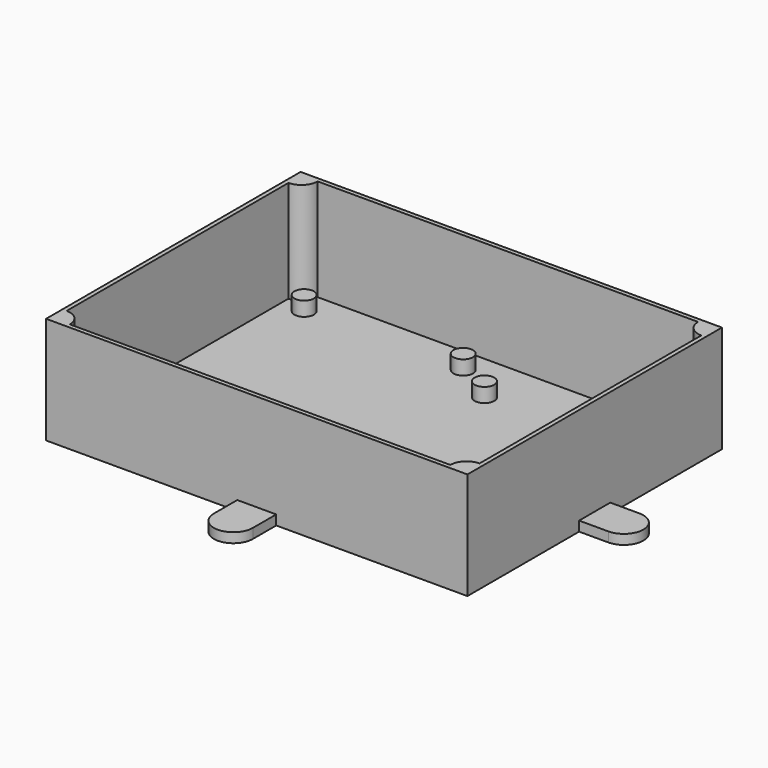
from build123d import *

# Parameters (mm, degrees)
SKETCH008_R  = 3
PAD008_DEPTH = 6
SKETCH004_R  = 3
PAD004_DEPTH = 6
PAD001_DEPTH = 1.6
PAD_DEPTH    = 3
SKETCH002_W  = 129.8
SKETCH002_H  = 98
PAD002_DEPTH = 33
SKETCH005_R  = 3
PAD005_DEPTH = 6
SKETCH006_R  = 3
PAD006_DEPTH = 6
SKETCH007_R  = 3
PAD007_DEPTH = 6
SKETCH009_R  = 3
PAD009_DEPTH = 6
SKETCH010_R  = 3
PAD010_DEPTH = 6
SKETCH011_R  = 3
PAD011_DEPTH = 6


with BuildPart() as body008:
    # Sketch008 → Pad008 (new body)
    with BuildSketch(Plane.XY):
        with Locations((8.45, 28)):
            Circle(SKETCH008_R)
    extrude(amount=PAD008_DEPTH)


with BuildPart() as body004:
    # Sketch004 → Pad004 (new body)
    with BuildSketch(Plane.XY):
        with Locations((-53.5, 36)):
            Circle(SKETCH004_R)
    extrude(amount=PAD004_DEPTH)


with BuildPart() as body001:
    # Sketch001 → Pad001 (new body)
    with BuildSketch(Plane.XY):
        with BuildLine():
            Line((-55.5, 43.7), (61.7, 43.7))
            ThreePointArc((61.7, 43.7), (63.164466, 40.164466), (66.7, 38.7))
            Line((66.7, 38.7), (66.7, -46.7))
            ThreePointArc((66.7, -46.7), (63.164466, -48.164466), (61.7, -51.7))
            Line((61.7, -51.7), (-55.5, -51.7))
            ThreePointArc((-55.5, -51.7), (-56.964466, -48.164466), (-60.5, -46.7))
            Line((-60.5, -46.7), (-60.5, 38.7))
            ThreePointArc((-60.5, 38.7), (-56.964466, 40.164466), (-55.5, 43.7))
        make_face()
    extrude(amount=PAD001_DEPTH)


with BuildPart() as fusion:
    # Sketch → Pad (new body)
    with BuildSketch(Plane.XY):
        with BuildLine():
            Line((-61.8, 45), (-2.9, 45))
            Line((-2.9, 54), (-2.9, 45))
            ThreePointArc((9.1, 54), (3.1, 60), (-2.9, 54))
            Line((9.1, 54), (9.1, 45))
            Line((9.1, 45), (68, 45))
            Line((68, 45), (68, 2))
            Line((77, 2), (68, 2))
            ThreePointArc((77, -10), (83, -4), (77, 2))
            Line((77, -10), (68, -10))
            Line((68, -10), (68, -53))
            Line((68, -53), (9.1, -53))
            Line((9.1, -62), (9.1, -53))
            ThreePointArc((-2.9, -62), (3.1, -68), (9.1, -62))
            Line((-2.9, -62), (-2.9, -53))
            Line((-2.9, -53), (-61.8, -53))
            Line((-61.8, -53), (-61.8, -10))
            Line((-61.8, -10), (-70.8, -10))
            ThreePointArc((-70.8, 2), (-76.8, -4), (-70.8, -10))
            Line((-61.8, 2), (-70.8, 2))
            Line((-61.8, 2), (-61.8, 45))
        make_face()
        with BuildLine():
            Line((-55.5, 43.7), (61.7, 43.7))
            ThreePointArc((61.7, 43.7), (63.164466, 40.164466), (66.7, 38.7))
            Line((66.7, 38.7), (66.7, -46.7))
            ThreePointArc((66.7, -46.7), (63.164466, -48.164466), (61.7, -51.7))
            Line((61.7, -51.7), (-55.5, -51.7))
            ThreePointArc((-55.5, -51.7), (-56.964466, -48.164466), (-60.5, -46.7))
            Line((-60.5, -46.7), (-60.5, 38.7))
            ThreePointArc((-60.5, 38.7), (-56.964466, 40.164466), (-55.5, 43.7))
        make_face(mode=Mode.SUBTRACT)
    extrude(amount=PAD_DEPTH)

    # Fusion: union Body001
    add(body001.part)


with BuildPart() as fusion002:
    # Sketch002 → Pad002 (new body)
    with BuildSketch(Plane.XY):
        with Locations((3.1, -4)):
            Rectangle(SKETCH002_W, SKETCH002_H)
        with BuildLine():
            Line((-55.5, 43.7), (61.7, 43.7))
            ThreePointArc((61.7, 43.7), (63.164466, 40.164466), (66.7, 38.7))
            Line((66.7, 38.7), (66.7, -46.7))
            ThreePointArc((66.7, -46.7), (63.164466, -48.164466), (61.7, -51.7))
            Line((61.7, -51.7), (-55.5, -51.7))
            ThreePointArc((-55.5, -51.7), (-56.964466, -48.164466), (-60.5, -46.7))
            Line((-60.5, -46.7), (-60.5, 38.7))
            ThreePointArc((-60.5, 38.7), (-56.964466, 40.164466), (-55.5, 43.7))
        make_face(mode=Mode.SUBTRACT)
    extrude(amount=PAD002_DEPTH)

    # Fusion001: union Fusion
    add(fusion.part)

    # Fusion002: union Body004
    add(body004.part)


with BuildPart() as fusion003:
    # Sketch005 → Pad005 (new body)
    with BuildSketch(Plane.XY):
        with Locations((-4.5, 36)):
            Circle(SKETCH005_R)
    extrude(amount=PAD005_DEPTH)

    # Fusion003: union Fusion002
    add(fusion002.part)


with BuildPart() as fusion004:
    # Sketch006 → Pad006 (new body)
    with BuildSketch(Plane.XY):
        with Locations((-4.5, -22)):
            Circle(SKETCH006_R)
    extrude(amount=PAD006_DEPTH)

    # Fusion004: union Fusion003
    add(fusion003.part)


with BuildPart() as fusion006:
    # Sketch007 → Pad007 (new body)
    with BuildSketch(Plane.XY):
        with Locations((-53.5, -22)):
            Circle(SKETCH007_R)
    extrude(amount=PAD007_DEPTH)

    # Fusion005: union Fusion004
    add(fusion004.part)

    # Fusion006: union Body008
    add(body008.part)


with BuildPart() as fusion007:
    # Sketch009 → Pad009 (new body)
    with BuildSketch(Plane.XY):
        with Locations((56.65, 28)):
            Circle(SKETCH009_R)
    extrude(amount=PAD009_DEPTH)

    # Fusion007: union Fusion006
    add(fusion006.part)


with BuildPart() as fusion008:
    # Sketch010 → Pad010 (new body)
    with BuildSketch(Plane.XY):
        with Locations((56.65, -38)):
            Circle(SKETCH010_R)
    extrude(amount=PAD010_DEPTH)

    # Fusion008: union Fusion007
    add(fusion007.part)


with BuildPart() as fusion009:
    # Sketch011 → Pad011 (new body)
    with BuildSketch(Plane.XY):
        with Locations((8.45, -38)):
            Circle(SKETCH011_R)
    extrude(amount=PAD011_DEPTH)

    # Fusion009: union Fusion008
    add(fusion008.part)


solid = fusion009.part
